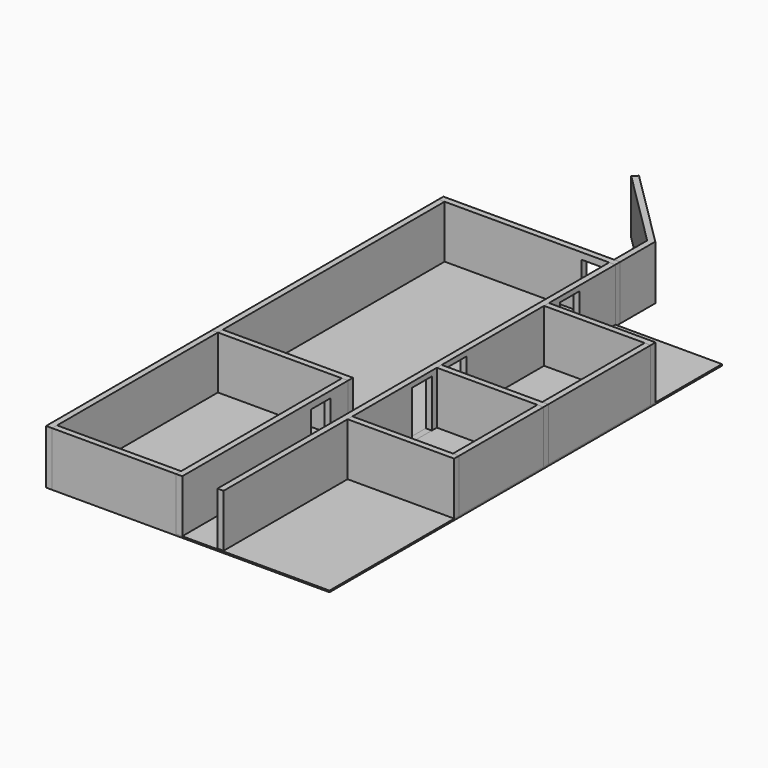
from build123d import *

# Parameters (mm, degrees)
F0_W      = 1473.5485315323
F0_H      = 452.6799321175
F1_DEPTH  = 50.8
F2_W      = 206.188082695
F2_H      = 398.2329070568
F3_DEPTH  = 71.12
F4_W      = 50.8
F4_H      = 452.6799321175
F5_DEPTH  = 2362.2
F6_W      = 50.8
F6_H      = 452.6799321175
F7_DEPTH  = 1084.58
F8_W      = 50.8
F8_H      = 452.6799321175
F9_DEPTH  = 1727.2
F10_W     = 206.188082695
F10_H     = 397.6490842178
F11_DEPTH = 111.76
F12_W     = 1191.797375679
F12_H     = 12.7
F12_W_2   = 206.188082695
F12_W_3   = 75.5630731583
F13_DEPTH = 4089.4
F14_DEPTH = 1727.2
F15_W     = 50.8
F15_H     = 452.6799321175
F16_DEPTH = 1033.78
F17_W     = 50.8
F17_H     = 452.6799321175
F18_DEPTH = 4081.78
F19_W     = 206.188082695
F19_H     = 397.6490842178
F20_DEPTH = 314.96
F21_W     = 50.8
F21_H     = 439.9799321175
F22_DEPTH = 889
F23_W     = 50.8
F23_H     = 439.9799321175
F24_DEPTH = 889
F25_W     = 50.8
F25_H     = 439.9799321175
F26_DEPTH = 879.5258
F27_W     = 50.8
F27_H     = 439.9799321175
F28_DEPTH = 889
F29_W     = 50.8
F29_H     = 439.9799321175
F30_DEPTH = 1066.5968
F31_DEPTH = 889
F32_W     = 50.8
F32_H     = 452.6799321175
F33_DEPTH = 381
F35_DEPTH = 505.46
F36_DEPTH = 914.4
F38_DEPTH = 546.1


with BuildPart() as f1:
    # F0 (on Front) → F1 (new body)
    with BuildSketch(Plane.XZ):
        with Locations((736.7742657661, 226.3399660587)):
            Rectangle(F0_W, F0_H)
    extrude(amount=F1_DEPTH)

    # F2 (on face) → F3 (cut)
    with BuildSketch(Plane.XZ.offset(50.8)):
        with Locations((1294.8914170265, 199.1164535284)):
            Rectangle(F2_W, F2_H)
    extrude(amount=-F3_DEPTH, mode=Mode.SUBTRACT)


with BuildPart() as f5:
    # F4 (on face) → F5 (new body)
    with BuildSketch(Plane.XZ.offset(50.8)):
        with Locations((25.4, 226.3399660587)):
            Rectangle(F4_W, F4_H)
    extrude(amount=F5_DEPTH)


with BuildPart() as f7:
    # F6 (on face) → F7 (new body)
    with BuildSketch(Plane.YZ.offset(50.8)):
        with Locations((-2387.6, 226.3399660587)):
            Rectangle(F6_W, F6_H)
    extrude(amount=F7_DEPTH)


with BuildPart() as f9:
    # F8 (on face) → F9 (new body)
    with BuildSketch(Plane.XZ.offset(2413)):
        with Locations((1109.98, 226.3399660587)):
            Rectangle(F8_W, F8_H)
    extrude(amount=F9_DEPTH)

    # F10 (on face) → F11 (cut)
    with BuildSketch(Plane.YZ.offset(1135.38)):
        with Locations((-2696.995358963, 198.8245421089)):
            Rectangle(F10_W, F10_H)
    extrude(amount=-F11_DEPTH, mode=Mode.SUBTRACT)


with BuildPart() as f13:
    # F12 (on face) → F13 (new body)
    with BuildSketch(Plane.XZ.offset(50.8)):
        with Locations((595.8986878395, 6.35)):
            Rectangle(F12_W, F12_H)
        with Locations((1294.8914170265, 6.35)):
            Rectangle(F12_W_2, F12_H)
        with Locations((1435.7669949532, 6.35)):
            Rectangle(F12_W_3, F12_H)
    extrude(amount=F13_DEPTH)


with BuildPart() as f14:
    # F14 (new): a face of the model
    f14_faces = [f5.part.faces().sort_by_distance(p)[0] for p in [
        (25.4, -2413, 226.3399660587),
    ]]
    extrude(f14_faces, amount=F14_DEPTH)


with BuildPart() as f16:
    # F15 (on face) → F16 (new body)
    with BuildSketch(Plane.YZ.offset(50.8)):
        with Locations((-4114.8, 226.3399660587)):
            Rectangle(F15_W, F15_H)
    extrude(amount=F16_DEPTH)


with BuildPart() as f18:
    # F17 (on face) → F18 (new body)
    with BuildSketch(Plane.XZ.offset(50.8)):
        with Locations((1448.1485315323, 226.3399660587)):
            Rectangle(F17_W, F17_H)
    extrude(amount=F18_DEPTH)

    # F19 (on face) → F20 (cut)
    with BuildSketch(Plane.YZ.offset(1473.5485315323)):
        with Locations((-2065.1913285255, 211.5245419554)):
            Rectangle(F19_W, F19_H)
        with Locations((-1704.414665699, 211.5245419554)):
            Rectangle(F19_W, F19_H)
        with Locations((-526.1393785477, 211.5245421089)):
            Rectangle(F19_W, F19_H)
    extrude(amount=-F20_DEPTH, mode=Mode.SUBTRACT)


with BuildPart() as f22:
    # F21 (on face) → F22 (new body)
    with BuildSketch(Plane.YZ.offset(1473.5485315323)):
        with Locations((-1884.8009070465, 232.6899660587)):
            Rectangle(F21_W, F21_H)
    extrude(amount=F22_DEPTH)


with BuildPart() as f24:
    # F23 (on face) → F24 (new body)
    with BuildSketch(Plane.YZ.offset(1473.5485315323)):
        with Locations((-2815.1361175537, 232.6899660587)):
            Rectangle(F23_W, F23_H)
    extrude(amount=F24_DEPTH)


with BuildPart() as f26:
    # F25 (on face) → F26 (new body)
    with BuildSketch(Plane(origin=(0, -2789.7361175537, 0), x_dir=(-1, 0, 0), z_dir=(0, 1, 0))):
        with Locations((-2337.1485315323, 232.6899660587)):
            Rectangle(F25_W, F25_H)
    extrude(amount=F26_DEPTH)


with BuildPart() as f28:
    # F27 (on face) → F28 (new body)
    with BuildSketch(Plane.YZ.offset(1473.5485315323)):
        with Locations((-767.4066253662, 232.6899660587)):
            Rectangle(F27_W, F27_H)
    extrude(amount=F28_DEPTH)


with BuildPart() as f30:
    # F29 (on face) → F30 (new body)
    with BuildSketch(Plane(origin=(0, -1859.4009070465, 0), x_dir=(-1, 0, 0), z_dir=(0, 1, 0))):
        with Locations((-2337.1485315323, 232.6899660587)):
            Rectangle(F29_W, F29_H)
    extrude(amount=F30_DEPTH)


with BuildPart() as f31:
    # F31 (new): a face of the model
    f31_faces = [f13.part.faces().sort_by_distance(p)[0] for p in [
        (1473.5485315323, -2095.5, 6.35),
    ]]
    extrude(f31_faces, amount=F31_DEPTH)


with BuildPart() as f33:
    # F32 (on face) → F33 (new body)
    with BuildSketch(Plane(origin=(0, 0, 0), x_dir=(-1, 0, 0), z_dir=(0, 1, 0))):
        with Locations((-1448.1485315323, 226.3399660587)):
            Rectangle(F32_W, F32_H)
    extrude(amount=F33_DEPTH)

    # F34 (on face) → F35 (cut)
    with BuildSketch(Plane.XY.offset(452.6799321175)):
        Polygon((1458.5624033598, 381), (1422.7485315323, 381), (1422.7485315323, 344.9721415468), align=None)
    extrude(amount=-F35_DEPTH, mode=Mode.SUBTRACT)

    # F36 (add): a face of the model
    f36_faces = [f33.faces().sort_by_distance(p)[0] for p in [
        (1440.655467446, 362.9860707734, 226.3399660587),
    ]]
    extrude(f36_faces, amount=F36_DEPTH)

    # F37 (on face) → F38 (cut)
    with BuildSketch(Plane.XY.offset(452.6799321175)):
        Polygon((1473.5485315323, 381), (1458.5624033598, 381), (1473.5485315323, 366.1028815865), align=None)
    extrude(amount=-F38_DEPTH, mode=Mode.SUBTRACT)


solid = Compound([f1.part, f5.part, f7.part, f9.part, f13.part, f14.part, f16.part, f18.part, f22.part, f24.part, f26.part, f28.part, f30.part, f31.part, f33.part])
